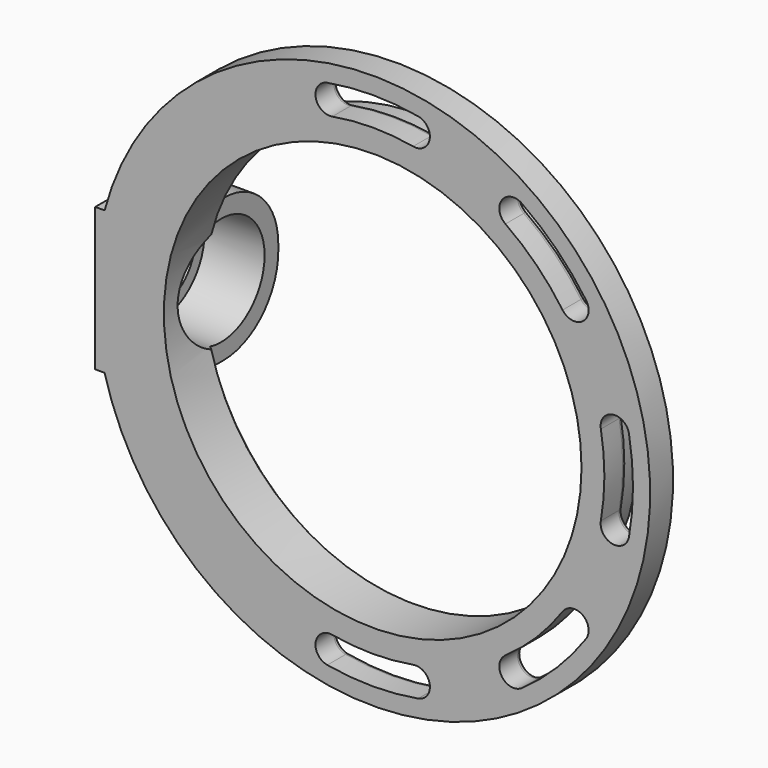
from build123d import *

# Parameters (mm, degrees)
POCKET_DEPTH       = 280.086441
POLARPATTERN_COUNT = 5
POLARPATTERN_ANGLE = 180
SKETCH002_W        = 12
SKETCH002_H        = 25
PAD_DEPTH          = 25
SKETCH003_R        = 7.5
POCKET001_DEPTH    = 40
SKETCH004_R        = 9.5
POCKET002_DEPTH    = 47
FILLET_R           = 12
CHAMFER_SIZE       = 1
FILLET001_R        = 1


with BuildPart() as part:
    # Sketch → Revolution (revolve)
    with BuildSketch(Plane.XY):
        Polygon((36.5, 0), (36.5, 10), (38.5, 10), (38.5, 5), (48.5, 5), (48.5, 0), align=None)
    revolve(axis=Axis((0, 0, 0), (0, 1, 0)))

    # Sketch001 (on Face4 of Revolution) → Pocket (cut, through all)
    with BuildSketch(Plane(origin=(0, 5, 0), x_dir=(-1, 0, 0), z_dir=(0, 1, 0))):
        with BuildLine():
            ThreePointArc((7.063953, 39.8792), (0, 40.5), (-7.063953, 39.8792))
            ThreePointArc((-7.936047, 44.802558), (-9.961679, 41.904832), (-7.063953, 39.8792))
            ThreePointArc((7.936047, 44.802558), (0, 45.5), (-7.936047, 44.802558))
            ThreePointArc((7.063953, 39.8792), (9.961679, 41.904832), (7.936047, 44.802558))
        make_face()
    pocket = extrude(amount=-POCKET_DEPTH, mode=Mode.SUBTRACT)

    # PolarPattern: Pocket ×5 about axis
    polarpattern_axis = Axis((0, 5, 0), (0, 1, 0))
    for i in range(1, POLARPATTERN_COUNT):
        add(pocket.rotate(polarpattern_axis, i * POLARPATTERN_ANGLE / (POLARPATTERN_COUNT - 1)), mode=Mode.SUBTRACT)

    # Sketch002 (on Face2 of PolarPattern) → Pad (join)
    with BuildSketch(Plane.XZ):
        with Locations((-42.5, 0)):
            Rectangle(SKETCH002_W, SKETCH002_H)
    extrude(amount=-PAD_DEPTH)

    # Sketch003 (on Face37 of Pad) → Pocket001 (cut)
    with BuildSketch(Plane(origin=(-48.5, 0, 0), x_dir=(0, -1, 0), z_dir=(-1, 0, 0))):
        with Locations((-12.5, 0)):
            Circle(SKETCH003_R)
    extrude(amount=-POCKET001_DEPTH, mode=Mode.SUBTRACT)

    # Sketch004 → Pocket002 (cut)
    with BuildSketch(Plane.YZ):
        with Locations((12.5, 0)):
            Circle(SKETCH004_R)
    extrude(amount=-POCKET002_DEPTH, mode=Mode.SUBTRACT)

    # Fillet
    fillet_edges = [part.edges().sort_by_distance(p)[0] for p in [
        (-42.5, 25, 12.5),
        (-42.5, 25, -12.5),
    ]]
    fillet(fillet_edges, radius=FILLET_R)

    # Chamfer
    chamfer_edges = [part.edges().sort_by_distance(p)[0] for p in [
        (4.619728, 10, 36.206465),
        (4.619728, 10, -36.206465),
    ]]
    chamfer(chamfer_edges, length=CHAMFER_SIZE)

    # Fillet001
    fillet001_edges = [part.edges().sort_by_distance(p)[0] for p in [
        (-9.961679, 5, 41.904832),
        (0, 5, 40.5),
        (0, 5, 45.5),
        (9.961679, 5, 41.904832),
        (22.58722, 5, 36.675162),
        (28.637825, 5, 28.637825),
        (36.675162, 5, 22.58722),
        (32.173359, 5, 32.173359),
        (41.904832, 5, 9.961679),
        (40.5, 5, 0),
        (41.904832, 5, -9.961679),
        (45.5, 5, 0),
        (36.675162, 5, -22.58722),
        (28.637825, 5, -28.637825),
        (22.58722, 5, -36.675162),
        (32.173359, 5, -32.173359),
        (-9.961679, 5, -41.904832),
        (0, 5, -45.5),
        (0, 5, -40.5),
        (9.961679, 5, -41.904832),
    ]]
    fillet(fillet001_edges, radius=FILLET001_R)


solid = part.part
